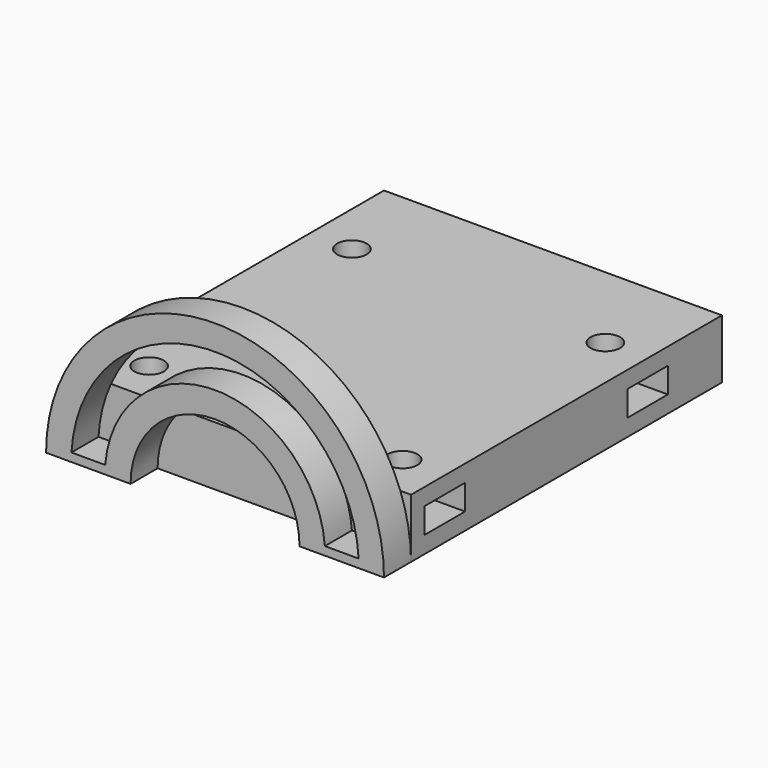
from build123d import *

# Parameters (mm, degrees)
CYLINDER004_R             = 1.75
CYLINDER004_DEPTH         = 30
BOX005_W                  = 20
BOX005_H                  = 6
BOX005_DEPTH              = 3
PRISM004_DEPTH            = 3
FUSION004_PLACEMENT_ANGLE = 180
CYLINDER003_R             = 1.75
CYLINDER003_DEPTH         = 30
BOX004_W                  = 20
BOX004_H                  = 6
BOX004_DEPTH              = 3
PRISM003_DEPTH            = 3
FUSION003_PLACEMENT_ANGLE = 180
CYLINDER002_R             = 1.75
CYLINDER002_DEPTH         = 30
BOX003_W                  = 20
BOX003_H                  = 6
BOX003_DEPTH              = 3
PRISM002_DEPTH            = 3
CYLINDER001_R             = 1.75
CYLINDER001_DEPTH         = 30
BOX002_W                  = 20
BOX002_H                  = 6
BOX002_DEPTH              = 3
PRISM001_DEPTH            = 3
BOX_W                     = 40
BOX_H                     = 46
BOX_DEPTH                 = 7
PAD_DEPTH                 = 4


with BuildPart() as cilindro004:
    # Cylinder004 → Cylinder004 (new body)
    with BuildSketch(Plane.XY.offset(-5)):
        Circle(CYLINDER004_R)
    extrude(amount=CYLINDER004_DEPTH)


with BuildPart() as cubo005:
    # Box005 → Box005 (new body)
    with BuildSketch(Plane(origin=(1, -3, 0), x_dir=(1, 0, 0), z_dir=(0, 0, 1))):
        with Locations((10, 3)):
            Rectangle(BOX005_W, BOX005_H)
    extrude(amount=BOX005_DEPTH)


with BuildPart() as fusion004:
    # Prism004 → Prism004 (new body)
    with BuildSketch(Plane.XY):
        Polygon((3.25, 0), (1.625, 2.814583), (-1.625, 2.814583), (-3.25, 0), (-1.625, -2.814583), (1.625, -2.814583), align=None)
    extrude(amount=PRISM004_DEPTH)

    # Fusion004: union Cilindro004, Cubo005
    add(cilindro004.part)
    add(cubo005.part)


with BuildPart() as fusion004_1:
    # Fusion004 placement: moved
    add(fusion004.part.moved(Location((5, 35, 2))).rotate(Axis((5, 35, 2), (0, 0, 1)), FUSION004_PLACEMENT_ANGLE))


with BuildPart() as cilindro003:
    # Cylinder003 → Cylinder003 (new body)
    with BuildSketch(Plane.XY.offset(-5)):
        Circle(CYLINDER003_R)
    extrude(amount=CYLINDER003_DEPTH)


with BuildPart() as cubo004:
    # Box004 → Box004 (new body)
    with BuildSketch(Plane(origin=(1, -3, 0), x_dir=(1, 0, 0), z_dir=(0, 0, 1))):
        with Locations((10, 3)):
            Rectangle(BOX004_W, BOX004_H)
    extrude(amount=BOX004_DEPTH)


with BuildPart() as fusion003:
    # Prism003 → Prism003 (new body)
    with BuildSketch(Plane.XY):
        Polygon((3.25, 0), (1.625, 2.814583), (-1.625, 2.814583), (-3.25, 0), (-1.625, -2.814583), (1.625, -2.814583), align=None)
    extrude(amount=PRISM003_DEPTH)

    # Fusion003: union Cilindro003, Cubo004
    add(cilindro003.part)
    add(cubo004.part)


with BuildPart() as fusion003_1:
    # Fusion003 placement: moved
    add(fusion003.part.moved(Location((5, 5, 2))).rotate(Axis((5, 5, 2), (0, 0, 1)), FUSION003_PLACEMENT_ANGLE))


with BuildPart() as cilindro002:
    # Cylinder002 → Cylinder002 (new body)
    with BuildSketch(Plane.XY.offset(-5)):
        Circle(CYLINDER002_R)
    extrude(amount=CYLINDER002_DEPTH)


with BuildPart() as cubo003:
    # Box003 → Box003 (new body)
    with BuildSketch(Plane(origin=(1, -3, 0), x_dir=(1, 0, 0), z_dir=(0, 0, 1))):
        with Locations((10, 3)):
            Rectangle(BOX003_W, BOX003_H)
    extrude(amount=BOX003_DEPTH)


with BuildPart() as fusion002:
    # Prism002 → Prism002 (new body)
    with BuildSketch(Plane.XY):
        Polygon((3.25, 0), (1.625, 2.814583), (-1.625, 2.814583), (-3.25, 0), (-1.625, -2.814583), (1.625, -2.814583), align=None)
    extrude(amount=PRISM002_DEPTH)

    # Fusion002: union Cilindro002, Cubo003
    add(cilindro002.part)
    add(cubo003.part)


with BuildPart() as fusion002_1:
    # Fusion002 placement: moved
    add(fusion002.part.moved(Location((35, 35, 2))))


with BuildPart() as cilindro001:
    # Cylinder001 → Cylinder001 (new body)
    with BuildSketch(Plane.XY.offset(-5)):
        Circle(CYLINDER001_R)
    extrude(amount=CYLINDER001_DEPTH)


with BuildPart() as cubo002:
    # Box002 → Box002 (new body)
    with BuildSketch(Plane(origin=(1, -3, 0), x_dir=(1, 0, 0), z_dir=(0, 0, 1))):
        with Locations((10, 3)):
            Rectangle(BOX002_W, BOX002_H)
    extrude(amount=BOX002_DEPTH)


with BuildPart() as fusion001:
    # Prism001 → Prism001 (new body)
    with BuildSketch(Plane.XY):
        Polygon((3.25, 0), (1.625, 2.814583), (-1.625, 2.814583), (-3.25, 0), (-1.625, -2.814583), (1.625, -2.814583), align=None)
    extrude(amount=PRISM001_DEPTH)

    # Fusion001: union Cilindro001, Cubo002
    add(cilindro001.part)
    add(cubo002.part)


with BuildPart() as fusion001_1:
    # Fusion001 placement: moved
    add(fusion001.part.moved(Location((35, 5, 2))))


with BuildPart() as body:
    # Box → Box (new body)
    with BuildSketch(Plane.XY):
        with Locations((20, 23)):
            Rectangle(BOX_W, BOX_H)
    extrude(amount=BOX_DEPTH)

    # Cut: cut Fusion001
    add(fusion001_1.part, mode=Mode.SUBTRACT)

    # Cut001: cut Fusion002
    add(fusion002_1.part, mode=Mode.SUBTRACT)

    # Cut002: cut Fusion003
    add(fusion003_1.part, mode=Mode.SUBTRACT)

    # Cut003: cut Fusion004
    add(fusion004_1.part, mode=Mode.SUBTRACT)

    # Sketch → Pad (new body)
    with BuildSketch(Plane.XZ):
        with BuildLine():
            Line((0, 0), (10, 0))
            ThreePointArc((30, -2.8e-05), (20.000014, 9.999972), (10, 0))
            Line((30, -2.8e-05), (40, -2.8e-05))
            ThreePointArc((40, -2.8e-05), (20.000014, 19.999972), (0, 0))
        make_face()
        with BuildLine():
            ThreePointArc((37, 1), (20, 17.02936), (3, 1))
            Line((3, 1), (7, 1))
            ThreePointArc((33, 1), (20, 13.038379), (7, 1))
            Line((37, 1), (33, 1))
        make_face(mode=Mode.SUBTRACT)
    extrude(amount=PAD_DEPTH)


solid = body.part
